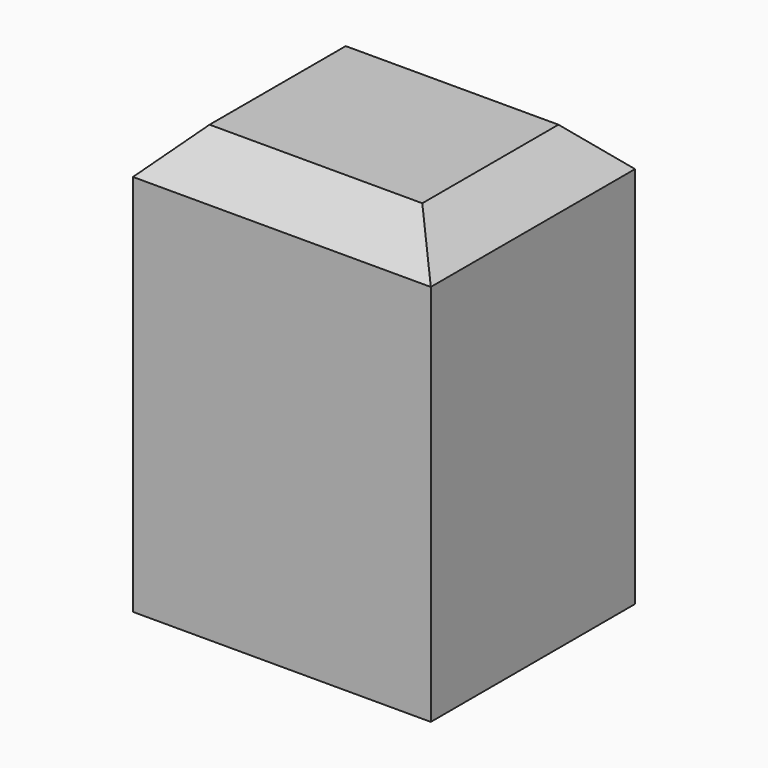
from build123d import *

# Parameters (mm, degrees)
F0_W     = 88.9
F0_H     = 76.2
F1_DEPTH = 127
F2_SIZE2 = 12.7
F2_SIZE  = 12.7


with BuildPart() as f1:
    # F0 (on Top) → F1 (new body)
    with BuildSketch(Plane.XY):
        with Locations((44.45, 38.1)):
            Rectangle(F0_W, F0_H)
    extrude(amount=F1_DEPTH)

    # F2
    f2_edges = [f1.edges().sort_by_distance(p)[0] for p in [
        (44.45, 0, 127),
        (88.9, 38.1, 127),
        (44.45, 76.2, 127),
        (0, 38.1, 127),
    ]]
    chamfer(f2_edges, length=F2_SIZE, length2=F2_SIZE2)


solid = f1.part
